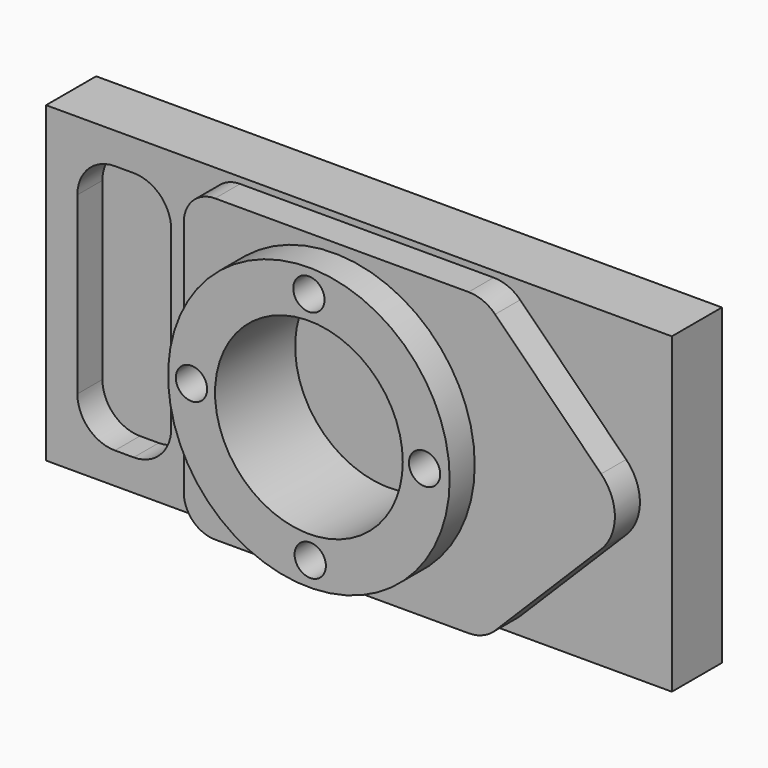
from build123d import *

# Parameters (mm, degrees)
F0_W      = 200
F0_H      = 100
F1_DEPTH  = 20
F3_DEPTH  = 10
F5_DEPTH  = 10
F6_R      = 45
F6_R_2    = 30
F7_DEPTH  = 10
F8_R      = 5
F9_DEPTH  = 25
F10_R     = 30
F11_DEPTH = 22


with BuildPart() as f1:
    # F0 (on Front) → F1 (new body)
    with BuildSketch(Plane.XZ):
        Rectangle(F0_W, F0_H)
    extrude(amount=F1_DEPTH)

    # F2 (on face) → F3 (cut)
    with BuildSketch(Plane.XZ.offset(20)):
        with BuildLine():
            Line((-72, 40), (-78, 40))
            ThreePointArc((-78, 40), (-86.485281, 36.485281), (-90, 28))
            Line((-90, 28), (-90, -28))
            ThreePointArc((-90, -28), (-86.485281, -36.485281), (-78, -40))
            Line((-78, -40), (-72, -40))
            ThreePointArc((-72, -40), (-63.514719, -36.485281), (-60, -28))
            Line((-60, -28), (-60, 28))
            ThreePointArc((-60, 28), (-63.514719, 36.485281), (-72, 40))
        make_face()
    extrude(amount=-F3_DEPTH, mode=Mode.SUBTRACT)

    # F4 (on face) → F5 (join)
    with BuildSketch(Plane.XZ.offset(20)):
        with BuildLine():
            Line((-38, -48), (43.029173, -48))
            ThreePointArc((43.029173, -48), (47.621583, -47.086468), (51.514773, -44.484963))
            Line((51.514773, -44.484963), (85.390988, -10.606203))
            ThreePointArc((85.390988, -10.606203), (89.783988, 0), (85.390988, 10.606203))
            Line((85.390988, 10.606203), (51.514773, 44.484963))
            ThreePointArc((51.514773, 44.484963), (47.621583, 47.086468), (43.029173, 48))
            Line((43.029173, 48), (-38, 48))
            ThreePointArc((-38, 48), (-45.071068, 45.071068), (-48, 38))
            Line((-48, 38), (-48, -38))
            ThreePointArc((-48, -38), (-45.071068, -45.071068), (-38, -48))
        make_face()
    extrude(amount=F5_DEPTH)

    # F6 (on face) → F7 (join)
    with BuildSketch(Plane.XZ.offset(30)):
        Circle(F6_R)
        Circle(F6_R_2, mode=Mode.SUBTRACT)
    extrude(amount=F7_DEPTH)

    # F8 (on face) → F9 (cut)
    with BuildSketch(Plane.XZ.offset(40)):
        with Locations((-37.533723, 0.141637)):
            Circle(F8_R)
        with Locations((36.967181, 0.42491)):
            Circle(F8_R)
        with Locations((0, 37.5)):
            Circle(F8_R)
        with Locations((0.424909, -37.250452)):
            Circle(F8_R)
    extrude(amount=-F9_DEPTH, mode=Mode.SUBTRACT)

    # F10 (on face) → F11 (cut)
    with BuildSketch(Plane.XZ.offset(30)):
        Circle(F10_R)
    extrude(amount=-F11_DEPTH, mode=Mode.SUBTRACT)


solid = f1.part
